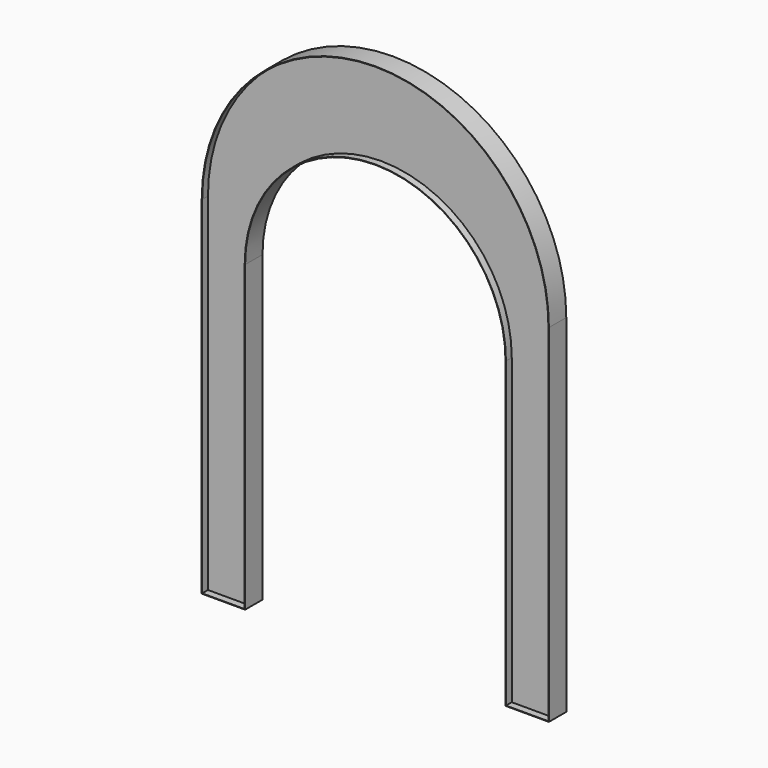
from build123d import *

# Parameters (mm, degrees)
F1_DEPTH = 76.2
F3_DEPTH = 50.8


with BuildPart() as f1:
    # F0 (on Front) → F1 (new body)
    with BuildSketch(Plane.XZ):
        with BuildLine():
            Line((-1219.2, 2438.4), (-1219.2, 0))
            Line((-1219.2, 0), (-914.4, 0))
            Line((-914.4, 0), (-914.4, 2133.6))
            ThreePointArc((-914.4, 2133.6), (0, 3048), (914.4, 2133.6))
            Line((914.4, 2133.6), (914.4, 0))
            Line((914.4, 0), (1219.2, 0))
            Line((1219.2, 0), (1219.2, 2438.4))
            ThreePointArc((1219.2, 2438.4), (0, 3657.6), (-1219.2, 2438.4))
        make_face()
    extrude(amount=F1_DEPTH)

    # F2 (on face) → F3 (cut)
    with BuildSketch(Plane.XZ.offset(76.2)):
        with BuildLine():
            ThreePointArc((-917.575, 2133.6), (0, 3051.175), (917.575, 2133.6))
            Line((917.575, 2133.6), (917.575, 3.175))
            Line((917.575, 3.175), (1216.025, 3.175))
            Line((1216.025, 3.175), (1216.025, 2438.4))
            ThreePointArc((1216.025, 2438.4), (0, 3654.425), (-1216.025, 2438.4))
            Line((-1216.025, 2438.4), (-1216.025, 3.175))
            Line((-1216.025, 3.175), (-917.575, 3.175))
            Line((-917.575, 3.175), (-917.575, 2133.6))
        make_face()
    extrude(amount=-F3_DEPTH, mode=Mode.SUBTRACT)

    # F4: F1 across face


with BuildPart() as f1_1:
    add(f1.part)
    add(f1.part.mirror(Plane(origin=(0, 0, 2177.935022), x_dir=(1, 0, 0), z_dir=(0, 1, 0))))


solid = f1_1.part
